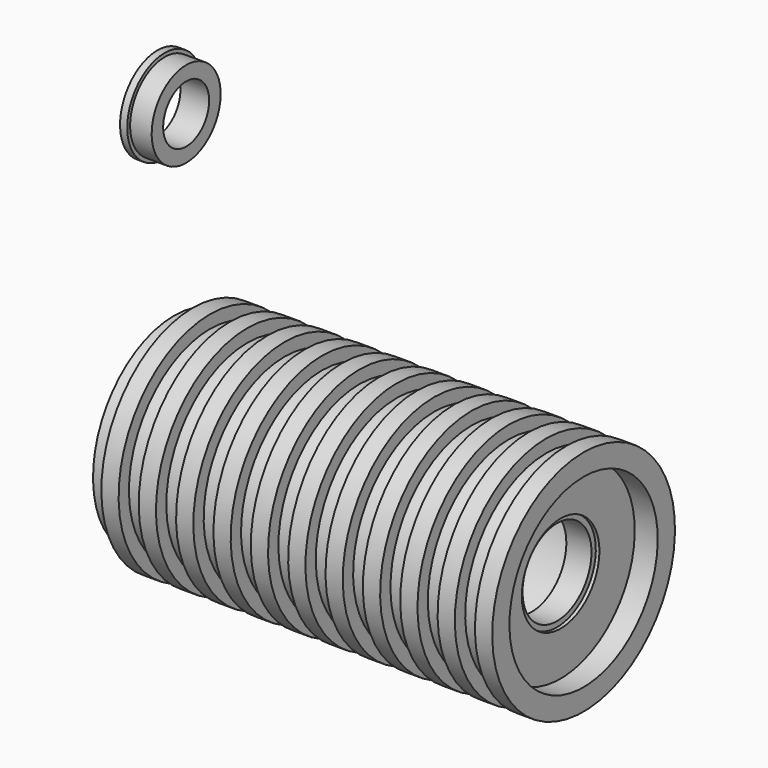
from build123d import *

# Parameters (mm, degrees)
F2_W   = 10
F2_H   = 4.9999976158
F2_H_2 = 5
F2_W_2 = 30
F2_H_3 = 9.9999982119
F2_H_4 = 5.0000017881


with BuildPart() as f1:
    # F0 (on Front) → F1 (revolve)
    with BuildSketch(Plane.XZ):
        Polygon((23.1781397015, -252.6045386791), (23.1781397015, -264.6045386791), (55.1781397015, -264.6045386791), (55.1781397015, -326.1045386791), (60.1781397015, -326.1045386791), (60.1781397015, -333.6045386791), (95.1781397015, -333.6045386791), (95.1781397015, -264.6045386791), (521.1781397015, -264.6045386791), (521.1781397015, -333.6045386791), (556.1781397015, -333.6045386791), (556.1781397015, -326.1045386791), (561.1781397015, -326.1045386791), (561.1781397015, -264.6045386791), (593.1781397015, -264.6045386791), (593.1781397015, -252.6045386791), (593.1781397015, -234.6045386791), (569.1781397015, -234.6045386791), (569.1781397015, -252.6045386791), (541.1781397015, -252.6045386791), (541.1781397015, -234.6045386791), (517.1781397015, -234.6045386791), (517.1781397015, -252.6045386791), (489.1781397015, -252.6045386791), (489.1781397015, -234.6045386791), (465.1781397015, -234.6045386791), (465.1781397015, -252.6045386791), (437.1781397015, -252.6045386791), (437.1781397015, -234.6045386791), (413.1781397015, -234.6045386791), (413.1781397015, -252.6045386791), (385.1781397015, -252.6045386791), (385.1781397015, -234.6045386791), (361.1781397015, -234.6045386791), (361.1781397015, -252.6045386791), (333.1781397015, -252.6045386791), (333.1781397015, -234.6045386791), (309.1781397015, -234.6045386791), (309.1781397015, -252.6045386791), (281.1781397015, -252.6045386791), (281.1781397015, -234.6045386791), (257.1781397015, -234.6045386791), (257.1781397015, -252.6045386791), (229.1781397015, -252.6045386791), (229.1781397015, -234.6045386791), (205.1781397015, -234.6045386791), (205.1781397015, -252.6045386791), (177.1781397015, -252.6045386791), (177.1781397015, -234.6045386791), (153.1781397015, -234.6045386791), (153.1781397015, -252.6045386791), (125.1781397015, -252.6045386791), (125.1781397015, -234.6045386791), (101.1781397015, -234.6045386791), (101.1781397015, -252.6045386791), (73.1781397015, -252.6045386791), (73.1781397015, -234.6045386791), (49.1781397015, -234.6045386791), (49.1781397015, -252.6045386791), align=None)
    revolve(axis=Axis((308.1781397015, 0, -393.6045386791), (1, 0, 0)))


with BuildPart() as f3:
    # F2 (on Front) → F3 (revolve)
    with BuildSketch(Plane.XZ):
        with Locations((5, 62.4999988079)):
            Rectangle(F2_W, F2_H)
        with Locations((5, 57.5)):
            Rectangle(F2_W, F2_H_2)
        with Locations((25, 57.5)):
            Rectangle(F2_W_2, F2_H_2)
        with Locations((25, 50.0000008941)):
            Rectangle(F2_W_2, F2_H_3)
        with Locations((5, 50.0000008941)):
            Rectangle(F2_W, F2_H_3)
        with Locations((5, 42.5000008941)):
            Rectangle(F2_W, F2_H_4)
        with Locations((25, 42.5000008941)):
            Rectangle(F2_W_2, F2_H_4)
    revolve(axis=Axis((324.4318664074, 0, 0), (1, 0, 0)))


solid = Compound([f1.part, f3.part])
